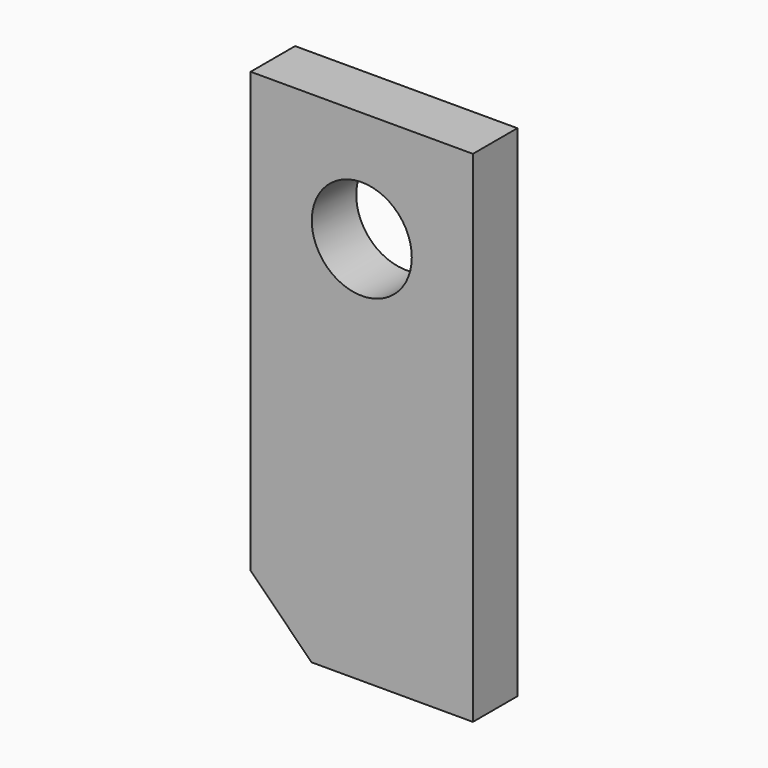
from build123d import *

# Parameters (mm, degrees)
F1_R     = 9
F2_DEPTH = 10


with BuildPart() as f2:
    # F1 (on offset) → F2 (new body)
    with BuildSketch(Plane.XZ.offset(1)):
        Polygon((20, -70), (20, 20), (-20, 20), (-20, -59.039845), (-9.039845, -70), align=None)
        Circle(F1_R, mode=Mode.SUBTRACT)
    extrude(amount=F2_DEPTH)


solid = f2.part
